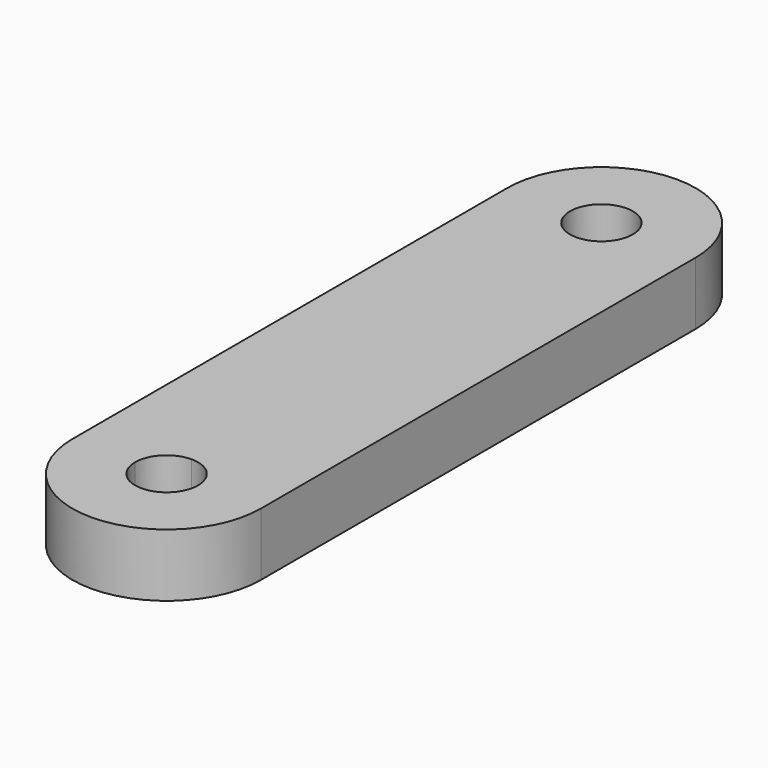
from build123d import *

# Parameters (mm, degrees)
F1_DEPTH = 6.35


with BuildPart() as f1:
    # F0 (on Top) → F1 (new body)
    with BuildSketch(Plane.XY):
        with BuildLine():
            ThreePointArc((-3.175, 0), (-2.2450640303, 2.2450640303), (0, 3.175))
            Line((0, 3.175), (0, 9.525))
            ThreePointArc((0, 9.525), (-6.7351920908, 6.7351920908), (-9.525, 0))
            Line((-9.5250000075, 0), (-3.175, 0))
        make_face()
        with BuildLine():
            Line((0, 9.525), (0, 3.175))
            ThreePointArc((0, 3.175), (2.2450640303, 2.2450640303), (3.175, 0))
            Line((3.175, 0), (9.525, 0))
            ThreePointArc((9.525, 0), (6.7351920908, 6.7351920908), (0, 9.525))
        make_face()
        with BuildLine():
            Line((9.525, 0), (3.175, 0))
            ThreePointArc((3.175, 0), (0, -3.175), (-3.175, 0))
            Line((-3.175, 0), (-9.5250000075, 0))
            ThreePointArc((-9.525, 0), (0, -9.525), (9.525, 0))
        make_face()
        with BuildLine():
            ThreePointArc((-9.525, 0), (-6.7351920908, 6.7351920908), (0, 9.525))
            Line((0, 9.525), (0, 45.4219387724))
            ThreePointArc((0, 45.4219387724), (-6.6627997611, 48.1401242205), (-9.5228225449, 54.7432827422))
            Line((-9.5228225449, 54.7432827422), (-9.5250000075, 0))
        make_face()
        with BuildLine():
            Line((0, 45.4219387724), (0, 9.525))
            ThreePointArc((0, 9.525), (6.7351920908, 6.7351920908), (9.525, 0))
            Line((9.525, 0), (9.525, 54.9469387724))
            ThreePointArc((9.525, 54.9469387724), (6.7351920908, 48.2117466816), (0, 45.4219387724))
        make_face()
        with BuildLine():
            ThreePointArc((-9.5228225449, 54.7432827422), (-6.6627997611, 48.1401242205), (0, 45.4219387724))
            ThreePointArc((0, 45.4219387724), (6.7351920908, 48.2117466816), (9.525, 54.9469387724))
            ThreePointArc((9.525, 54.9469387724), (-0.1018338352, 64.4713943931), (-9.5228225449, 54.7432827422))
        make_face()
        with BuildLine():
            ThreePointArc((3.175, 54.9469387724), (2.2450640303, 52.7018747421), (0, 51.7719387724))
            ThreePointArc((0, 51.7719387724), (-2.2450640303, 57.1920028027), (3.175, 54.9469387724))
        make_face(mode=Mode.SUBTRACT)
    extrude(amount=F1_DEPTH)


solid = f1.part
